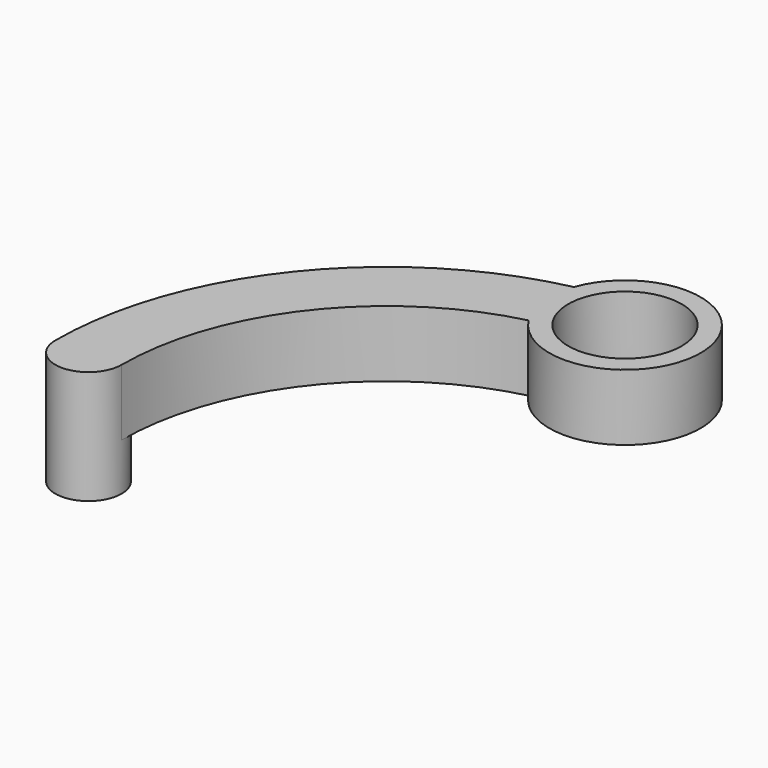
from build123d import *

# Parameters (mm, degrees)
F0_R     = 35
F2_DEPTH = 7
F3_DEPTH = 7.001
F4_R     = 8
F5_DEPTH = 7
F6_R     = 3.5
F7_DEPTH = 12
F8_R     = 6
F9_DEPTH = 12.001


with BuildPart() as f2:
    # F0 (on Top) → F2 (new body)
    with BuildSketch(Plane.XY):
        Circle(F0_R)
    extrude(amount=F2_DEPTH)

    # F1 (on face) → F3 (intersect, through all)
    with BuildSketch(Plane.XY):
        with BuildLine():
            Line((0, 28), (0, 35))
            ThreePointArc((0, 35), (-24.748737, 24.748737), (-35, 0))
            Line((-35, 0), (-28, 0))
            ThreePointArc((-28, 0), (-19.79899, 19.79899), (0, 28))
        make_face()
    extrude(amount=F3_DEPTH, mode=Mode.INTERSECT)

    # F4 (on face) → F5 (join)
    with BuildSketch(Plane.XY.offset(7)):
        with Locations((0, 31.5)):
            Circle(F4_R)
    extrude(amount=-F5_DEPTH)

    # F6 (on face) → F7 (join)
    with BuildSketch(Plane.XY.offset(7)):
        with Locations((-31.5, 0)):
            Circle(F6_R)
    extrude(amount=-F7_DEPTH)

    # F8 (on face) → F9 (cut, through all)
    with BuildSketch(Plane.XY.offset(7)):
        with Locations((0, 31.5)):
            Circle(F8_R)
    extrude(amount=-F9_DEPTH, mode=Mode.SUBTRACT)


solid = f2.part
